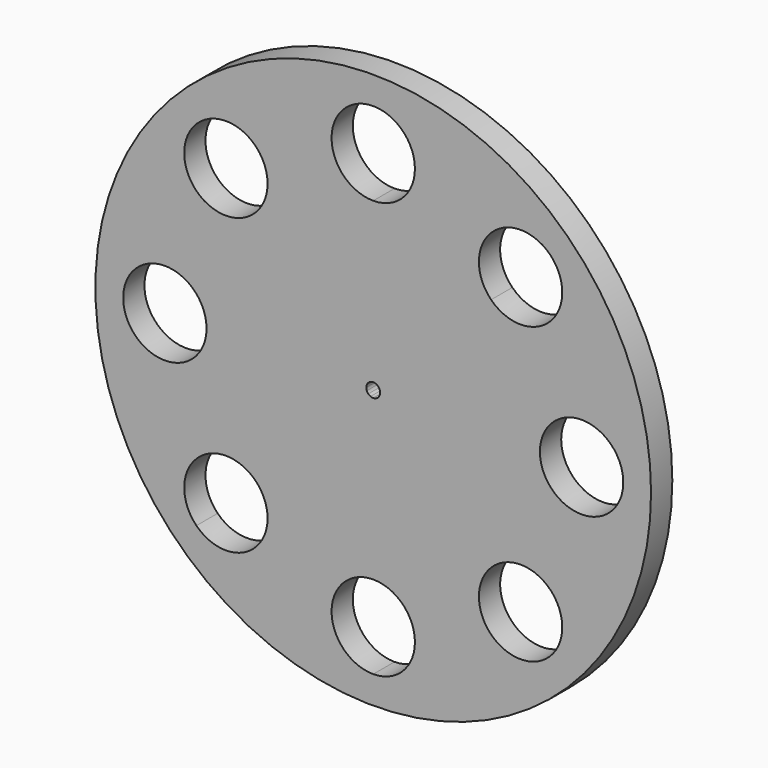
from build123d import *

# Parameters (mm, degrees)
F0_R     = 63.5
F1_DEPTH = 6.07568
F3_DEPTH = 25.4
F4_DEPTH = 25.4


with BuildPart() as f1:
    # F0 (on Front) → F1 (new body)
    with BuildSketch(Plane.XZ):
        Circle(F0_R)
    extrude(amount=F1_DEPTH)

    # F2 (on face) → F3 (cut)
    with BuildSketch(Plane.XZ.offset(6.07568)):
        with BuildLine():
            Line((0, 0), (1.5875, 0))
            ThreePointArc((1.5875, 0), (1.556997, 0.309706), (1.466659, 0.60751))
            Line((1.466659, 0.60751), (0, 0))
        make_face()
        with BuildLine():
            ThreePointArc((43.20096, -33.67596), (37.32102, -24.876008), (26.940768, -26.940768))
            Line((26.940768, -26.940768), (40.411153, -40.411153))
            ThreePointArc((40.411153, -40.411153), (42.475913, -37.32102), (43.20096, -33.67596))
        make_face()
        with BuildLine():
            Line((40.411153, -40.411153), (26.940768, -26.940768))
            ThreePointArc((26.940768, -26.940768), (26.940768, -40.411153), (40.411153, -40.411153))
        make_face()
        with BuildLine():
            ThreePointArc((9.525, -47.625), (6.735192, -40.889808), (0, -38.1))
            Line((0, -38.1), (0, -57.15))
            ThreePointArc((0, -57.15), (6.735192, -54.360192), (9.525, -47.625))
        make_face()
        with BuildLine():
            Line((0, -57.15), (0, -38.1))
            ThreePointArc((0, -38.1), (-9.525, -47.625), (0, -57.15))
        make_face()
        with BuildLine():
            ThreePointArc((-24.15096, -33.67596), (-24.876008, -30.030901), (-26.940768, -26.940768))
            Line((-26.940768, -26.940768), (-40.411153, -40.411153))
            ThreePointArc((-40.411153, -40.411153), (-30.030901, -42.475913), (-24.15096, -33.67596))
        make_face()
        with BuildLine():
            Line((-40.411153, -40.411153), (-26.940768, -26.940768))
            ThreePointArc((-26.940768, -26.940768), (-40.411153, -26.940768), (-40.411153, -40.411153))
        make_face()
        with BuildLine():
            ThreePointArc((-57.15, 0), (-47.625, -9.525), (-38.1, 0))
            Line((-38.1, 0), (-57.15, 0))
        make_face()
        with BuildLine():
            Line((-57.15, 0), (-38.1, 0))
            ThreePointArc((-38.1, 0), (-47.625, 9.525), (-57.15, 0))
        make_face()
        with BuildLine():
            ThreePointArc((-40.411153, 40.411153), (-40.411153, 26.940768), (-26.940768, 26.940768))
            Line((-26.940768, 26.940768), (-40.411153, 40.411153))
        make_face()
        with BuildLine():
            Line((-40.411153, 40.411153), (-26.940768, 26.940768))
            ThreePointArc((-26.940768, 26.940768), (-24.876008, 30.030901), (-24.15096, 33.67596))
            ThreePointArc((-24.15096, 33.67596), (-30.030901, 42.475913), (-40.411153, 40.411153))
        make_face()
        with BuildLine():
            ThreePointArc((0, 57.15), (-9.525, 47.625), (0, 38.1))
            Line((0, 38.1), (0, 57.15))
        make_face()
        with BuildLine():
            Line((0, 57.15), (0, 38.1))
            ThreePointArc((0, 38.1), (6.735192, 40.889808), (9.525, 47.625))
            ThreePointArc((9.525, 47.625), (6.735192, 54.360192), (0, 57.15))
        make_face()
        with BuildLine():
            ThreePointArc((40.411153, 40.411153), (26.940768, 40.411153), (26.940768, 26.940768))
            Line((26.940768, 26.940768), (40.411153, 40.411153))
        make_face()
        with BuildLine():
            Line((40.411153, 40.411153), (26.940768, 26.940768))
            ThreePointArc((26.940768, 26.940768), (37.32102, 24.876008), (43.20096, 33.67596))
            ThreePointArc((43.20096, 33.67596), (42.475913, 37.32102), (40.411153, 40.411153))
        make_face()
        with BuildLine():
            ThreePointArc((57.15, 0), (47.625, 9.525), (38.1, 0))
            Line((38.1, 0), (57.15, 0))
        make_face()
        with BuildLine():
            Line((57.15, 0), (38.1, 0))
            ThreePointArc((38.1, 0), (47.625, -9.525), (57.15, 0))
        make_face()
        with BuildLine():
            ThreePointArc((1.466659, -0.60751), (1.556997, -0.309706), (1.5875, 0))
            Line((1.5875, 0), (0, 0))
            Line((0, 0), (1.466659, -0.60751))
        make_face()
        with BuildLine():
            Line((0, 0), (1.466659, 0.60751))
            ThreePointArc((1.466659, 0.60751), (1.319958, 0.881968), (1.122532, 1.122532))
            Line((1.122532, 1.122532), (0, 0))
        make_face()
        with BuildLine():
            ThreePointArc((1.122532, -1.122532), (1.319958, -0.881968), (1.466659, -0.60751))
            Line((1.466659, -0.60751), (0, 0))
            Line((0, 0), (1.122532, -1.122532))
        make_face()
        with BuildLine():
            Line((-1.466659, -0.60751), (0, 0))
            Line((0, 0), (-1.5875, 0))
            ThreePointArc((-1.5875, 0), (-1.556997, -0.309706), (-1.466659, -0.60751))
        make_face()
        with BuildLine():
            Line((-0.60751, 1.466659), (0, 0))
            Line((0, 0), (0, 1.5875))
            ThreePointArc((0, 1.5875), (-0.309706, 1.556997), (-0.60751, 1.466659))
        make_face()
        with BuildLine():
            Line((0.60751, -1.466659), (0, 0))
            Line((0, 0), (0, -1.5875))
            ThreePointArc((0, -1.5875), (0.309706, -1.556997), (0.60751, -1.466659))
        make_face()
        with BuildLine():
            Line((-1.466659, 0.60751), (0, 0))
            Line((0, 0), (-1.122532, 1.122532))
            ThreePointArc((-1.122532, 1.122532), (-1.319958, 0.881968), (-1.466659, 0.60751))
        make_face()
        with BuildLine():
            Line((0.60751, 1.466659), (0, 0))
            Line((0, 0), (1.122532, 1.122532))
            ThreePointArc((1.122532, 1.122532), (0.881968, 1.319958), (0.60751, 1.466659))
        make_face()
        with BuildLine():
            Line((-0.60751, -1.466659), (0, 0))
            Line((0, 0), (-1.122532, -1.122532))
            ThreePointArc((-1.122532, -1.122532), (-0.881968, -1.319958), (-0.60751, -1.466659))
        make_face()
        with BuildLine():
            Line((-1.122532, -1.122532), (0, 0))
            Line((0, 0), (-1.466659, -0.60751))
            ThreePointArc((-1.466659, -0.60751), (-1.319958, -0.881968), (-1.122532, -1.122532))
        make_face()
        with BuildLine():
            Line((0, -1.5875), (0, 0))
            Line((0, 0), (-0.60751, -1.466659))
            ThreePointArc((-0.60751, -1.466659), (-0.309706, -1.556997), (0, -1.5875))
        make_face()
        with BuildLine():
            Line((1.122532, -1.122532), (0, 0))
            Line((0, 0), (0.60751, -1.466659))
            ThreePointArc((0.60751, -1.466659), (0.881968, -1.319958), (1.122532, -1.122532))
        make_face()
        with BuildLine():
            Line((0, 1.5875), (0, 0))
            Line((0, 0), (0.60751, 1.466659))
            ThreePointArc((0.60751, 1.466659), (0.309706, 1.556997), (0, 1.5875))
        make_face()
        with BuildLine():
            Line((-1.122532, 1.122532), (0, 0))
            Line((0, 0), (-0.60751, 1.466659))
            ThreePointArc((-0.60751, 1.466659), (-0.881968, 1.319958), (-1.122532, 1.122532))
        make_face()
        with BuildLine():
            Line((-1.5875, 0), (0, 0))
            Line((0, 0), (-1.466659, 0.60751))
            ThreePointArc((-1.466659, 0.60751), (-1.556997, 0.309706), (-1.5875, 0))
        make_face()
    extrude(amount=-F3_DEPTH, mode=Mode.SUBTRACT)

    # F2 (on face) → F4 (cut)
    with BuildSketch(Plane.XZ.offset(6.07568)):
        with BuildLine():
            Line((0, 0), (1.5875, 0))
            ThreePointArc((1.5875, 0), (1.556997, 0.309706), (1.466659, 0.60751))
            Line((1.466659, 0.60751), (0, 0))
        make_face()
        with BuildLine():
            ThreePointArc((43.20096, -33.67596), (37.32102, -24.876008), (26.940768, -26.940768))
            Line((26.940768, -26.940768), (40.411153, -40.411153))
            ThreePointArc((40.411153, -40.411153), (42.475913, -37.32102), (43.20096, -33.67596))
        make_face()
        with BuildLine():
            Line((40.411153, -40.411153), (26.940768, -26.940768))
            ThreePointArc((26.940768, -26.940768), (26.940768, -40.411153), (40.411153, -40.411153))
        make_face()
        with BuildLine():
            ThreePointArc((9.525, -47.625), (6.735192, -40.889808), (0, -38.1))
            Line((0, -38.1), (0, -57.15))
            ThreePointArc((0, -57.15), (6.735192, -54.360192), (9.525, -47.625))
        make_face()
        with BuildLine():
            Line((0, -57.15), (0, -38.1))
            ThreePointArc((0, -38.1), (-9.525, -47.625), (0, -57.15))
        make_face()
        with BuildLine():
            ThreePointArc((-24.15096, -33.67596), (-24.876008, -30.030901), (-26.940768, -26.940768))
            Line((-26.940768, -26.940768), (-40.411153, -40.411153))
            ThreePointArc((-40.411153, -40.411153), (-30.030901, -42.475913), (-24.15096, -33.67596))
        make_face()
        with BuildLine():
            Line((-40.411153, -40.411153), (-26.940768, -26.940768))
            ThreePointArc((-26.940768, -26.940768), (-40.411153, -26.940768), (-40.411153, -40.411153))
        make_face()
        with BuildLine():
            ThreePointArc((-57.15, 0), (-47.625, -9.525), (-38.1, 0))
            Line((-38.1, 0), (-57.15, 0))
        make_face()
        with BuildLine():
            Line((-57.15, 0), (-38.1, 0))
            ThreePointArc((-38.1, 0), (-47.625, 9.525), (-57.15, 0))
        make_face()
        with BuildLine():
            ThreePointArc((-40.411153, 40.411153), (-40.411153, 26.940768), (-26.940768, 26.940768))
            Line((-26.940768, 26.940768), (-40.411153, 40.411153))
        make_face()
        with BuildLine():
            Line((-40.411153, 40.411153), (-26.940768, 26.940768))
            ThreePointArc((-26.940768, 26.940768), (-24.876008, 30.030901), (-24.15096, 33.67596))
            ThreePointArc((-24.15096, 33.67596), (-30.030901, 42.475913), (-40.411153, 40.411153))
        make_face()
        with BuildLine():
            ThreePointArc((0, 57.15), (-9.525, 47.625), (0, 38.1))
            Line((0, 38.1), (0, 57.15))
        make_face()
        with BuildLine():
            Line((0, 57.15), (0, 38.1))
            ThreePointArc((0, 38.1), (6.735192, 40.889808), (9.525, 47.625))
            ThreePointArc((9.525, 47.625), (6.735192, 54.360192), (0, 57.15))
        make_face()
        with BuildLine():
            ThreePointArc((40.411153, 40.411153), (26.940768, 40.411153), (26.940768, 26.940768))
            Line((26.940768, 26.940768), (40.411153, 40.411153))
        make_face()
        with BuildLine():
            Line((40.411153, 40.411153), (26.940768, 26.940768))
            ThreePointArc((26.940768, 26.940768), (37.32102, 24.876008), (43.20096, 33.67596))
            ThreePointArc((43.20096, 33.67596), (42.475913, 37.32102), (40.411153, 40.411153))
        make_face()
        with BuildLine():
            ThreePointArc((57.15, 0), (47.625, 9.525), (38.1, 0))
            Line((38.1, 0), (57.15, 0))
        make_face()
        with BuildLine():
            Line((57.15, 0), (38.1, 0))
            ThreePointArc((38.1, 0), (47.625, -9.525), (57.15, 0))
        make_face()
        with BuildLine():
            ThreePointArc((1.466659, -0.60751), (1.556997, -0.309706), (1.5875, 0))
            Line((1.5875, 0), (0, 0))
            Line((0, 0), (1.466659, -0.60751))
        make_face()
        with BuildLine():
            Line((0, 0), (1.466659, 0.60751))
            ThreePointArc((1.466659, 0.60751), (1.319958, 0.881968), (1.122532, 1.122532))
            Line((1.122532, 1.122532), (0, 0))
        make_face()
        with BuildLine():
            ThreePointArc((1.122532, -1.122532), (1.319958, -0.881968), (1.466659, -0.60751))
            Line((1.466659, -0.60751), (0, 0))
            Line((0, 0), (1.122532, -1.122532))
        make_face()
        with BuildLine():
            Line((-1.466659, -0.60751), (0, 0))
            Line((0, 0), (-1.5875, 0))
            ThreePointArc((-1.5875, 0), (-1.556997, -0.309706), (-1.466659, -0.60751))
        make_face()
        with BuildLine():
            Line((-0.60751, 1.466659), (0, 0))
            Line((0, 0), (0, 1.5875))
            ThreePointArc((0, 1.5875), (-0.309706, 1.556997), (-0.60751, 1.466659))
        make_face()
        with BuildLine():
            Line((0.60751, -1.466659), (0, 0))
            Line((0, 0), (0, -1.5875))
            ThreePointArc((0, -1.5875), (0.309706, -1.556997), (0.60751, -1.466659))
        make_face()
        with BuildLine():
            Line((-1.466659, 0.60751), (0, 0))
            Line((0, 0), (-1.122532, 1.122532))
            ThreePointArc((-1.122532, 1.122532), (-1.319958, 0.881968), (-1.466659, 0.60751))
        make_face()
        with BuildLine():
            Line((0.60751, 1.466659), (0, 0))
            Line((0, 0), (1.122532, 1.122532))
            ThreePointArc((1.122532, 1.122532), (0.881968, 1.319958), (0.60751, 1.466659))
        make_face()
        with BuildLine():
            Line((-0.60751, -1.466659), (0, 0))
            Line((0, 0), (-1.122532, -1.122532))
            ThreePointArc((-1.122532, -1.122532), (-0.881968, -1.319958), (-0.60751, -1.466659))
        make_face()
        with BuildLine():
            Line((-1.122532, -1.122532), (0, 0))
            Line((0, 0), (-1.466659, -0.60751))
            ThreePointArc((-1.466659, -0.60751), (-1.319958, -0.881968), (-1.122532, -1.122532))
        make_face()
        with BuildLine():
            Line((0, -1.5875), (0, 0))
            Line((0, 0), (-0.60751, -1.466659))
            ThreePointArc((-0.60751, -1.466659), (-0.309706, -1.556997), (0, -1.5875))
        make_face()
        with BuildLine():
            Line((1.122532, -1.122532), (0, 0))
            Line((0, 0), (0.60751, -1.466659))
            ThreePointArc((0.60751, -1.466659), (0.881968, -1.319958), (1.122532, -1.122532))
        make_face()
        with BuildLine():
            Line((0, 1.5875), (0, 0))
            Line((0, 0), (0.60751, 1.466659))
            ThreePointArc((0.60751, 1.466659), (0.309706, 1.556997), (0, 1.5875))
        make_face()
        with BuildLine():
            Line((-1.122532, 1.122532), (0, 0))
            Line((0, 0), (-0.60751, 1.466659))
            ThreePointArc((-0.60751, 1.466659), (-0.881968, 1.319958), (-1.122532, 1.122532))
        make_face()
        with BuildLine():
            Line((-1.5875, 0), (0, 0))
            Line((0, 0), (-1.466659, 0.60751))
            ThreePointArc((-1.466659, 0.60751), (-1.556997, 0.309706), (-1.5875, 0))
        make_face()
    extrude(amount=-F4_DEPTH, mode=Mode.SUBTRACT)


solid = f1.part
